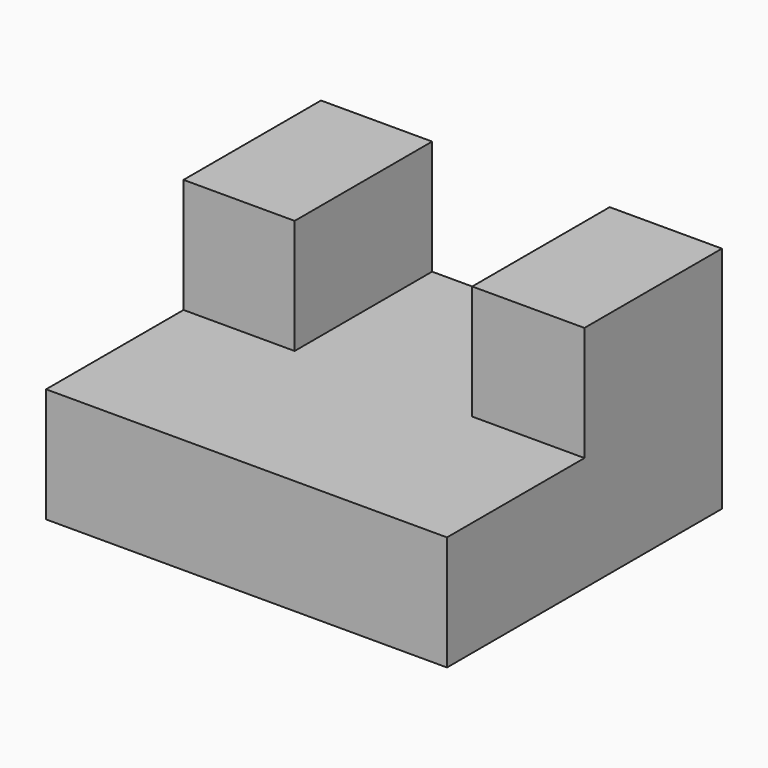
from build123d import *

# Parameters (mm, degrees)
F1_DEPTH  = 88.9
F2_W      = 19.562296
F2_H      = 25.4
F3_DEPTH  = 38.101
F3_FACE_W = 38.1
F3_FACE_H = 25.4
F4_DEPTH  = 19.812


with BuildPart() as f1:
    # F0 (on Right) → F1 (new body)
    with BuildSketch(Plane.YZ):
        Polygon((-35.532832, -2.230505), (-35.532832, -27.630505), (40.667168, -27.630505), (40.667168, 23.169495), (2.567168, 23.169495), (2.567168, -2.230505), align=None)
        Polygon((-35.532832, -2.230505), (-35.532832, -27.630505), (40.667168, -27.630505), (40.667168, 23.169495), (2.567168, 23.169495), (2.567168, -2.230505), align=None)
    extrude(amount=F1_DEPTH)

    # F2 (on face) → F3 (cut, through all)
    with BuildSketch(Plane.XZ.offset(-2.567168)):
        with Locations((54.231148, 10.469495)):
            Rectangle(F2_W, F2_H)
    extrude(amount=-F3_DEPTH, mode=Mode.SUBTRACT)

    # F3_face (on face) → F4 (cut)
    with BuildSketch(Plane(origin=(44.45, 21.617168, 10.469495), x_dir=(0, 1, 0), z_dir=(1, 0, 0))):
        Rectangle(F3_FACE_W, F3_FACE_H)
    extrude(amount=-F4_DEPTH, mode=Mode.SUBTRACT)


solid = f1.part
